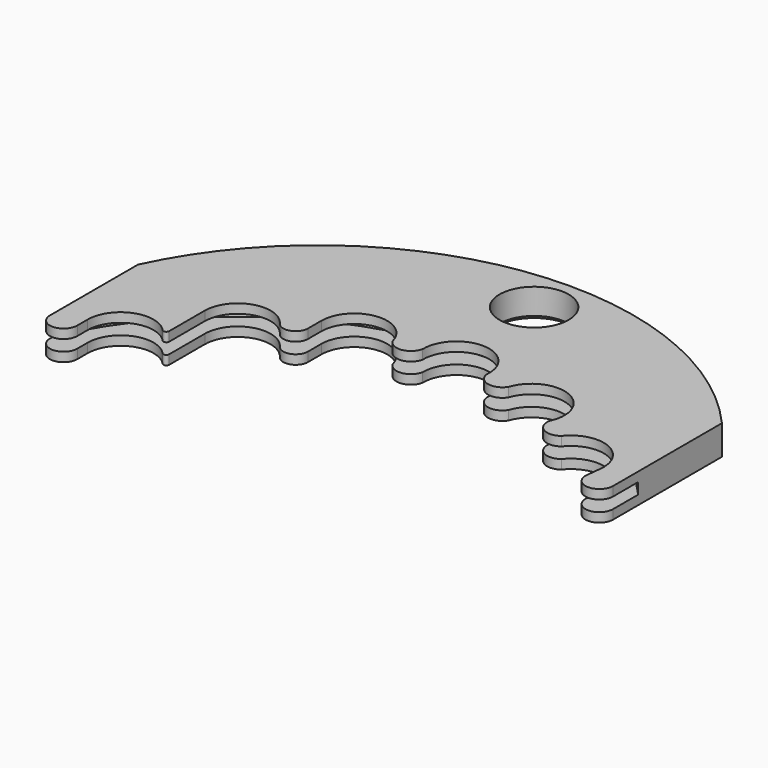
from build123d import *

# Parameters (mm, degrees)
F0_R     = 1.75
F1_DEPTH = 0.75
F2_SIZE  = 0.2
F3_R     = 16
F4_DEPTH = 0.2808333333
F5_SCALE = 3


with BuildPart() as f1:
    # F0 (on Top) → F1 (new body, symmetric)
    with BuildSketch(Plane.XY):
        with BuildLine():
            ThreePointArc((-1.1949222327, 13.4470130831), (0.5293090333, 15.1574275431), (2.1300276773, 13.3309032738))
            ThreePointArc((2.1300276773, 13.3309032738), (2.7028519806, 12.7159188095), (3.4762897375, 13.0447464391))
            ThreePointArc((3.4762897375, 13.0447464391), (5.6815333335, 14.0622884609), (6.5610087387, 11.7984390633))
            ThreePointArc((6.5610087387, 11.7984390633), (6.888950435, 11.02462525), (7.7282098608, 11.0690908546))
            ThreePointArc((7.7282098608, 11.0690908546), (9.6681759929, 11.5734494675), (10.6897886008, 9.8488759309))
            Line((10.6897886008, 9.8488759309), (10.6042593257, 9.0771032695))
            ThreePointArc((10.6042593257, 9.0771032695), (11.2613895868, 8.3010656426), (12, 9))
            Line((12, 9), (12, 15.8830052443))
            ThreePointArc((12, 15.8830052443), (-2.2823101594, 21.1363840676), (-14.5, 12.0638746292))
            Line((-14.5, 12.0638746292), (-14.5, 6.4923420176))
            ThreePointArc((-14.5, 6.4923420176), (-13.8076579824, 5.8), (-13.1153159648, 6.4923420176))
            Line((-13.1153159648, 6.4923420176), (-13.1153159648, 7.1539100671))
            ThreePointArc((-13.1153159648, 7.1539100671), (-12.0573735414, 8.7054359527), (-10.2266368767, 8.2872517719))
            ThreePointArc((-10.2266368767, 8.2872517719), (-10.0691213433, 8.2512714446), (-9.9780965836, 8.3847638426))
            Line((-9.9780965836, 8.3847638426), (-9.9780965836, 10.6381451737))
            ThreePointArc((-9.9780965836, 10.6381451737), (-8.8304088419, 12.2219502921), (-6.9679701997, 11.624498947))
            ThreePointArc((-6.9679701997, 11.624498947), (-6.2690751364, 11.4003005298), (-5.8383960907, 11.9946361248))
            Line((-5.8383960907, 11.9946361248), (-5.8383960907, 12.83926297))
            ThreePointArc((-5.8383960907, 12.83926297), (-4.3814979484, 14.4926760896), (-2.557866158, 13.2554638062))
            ThreePointArc((-2.557866158, 13.2554638062), (-1.8092503125, 12.8734848936), (-1.1949222327, 13.4470130831))
        make_face()
        with Locations((0, 19)):
            Circle(F0_R, mode=Mode.SUBTRACT)
    extrude(amount=F1_DEPTH, both=True)

    # F2
    f2_edges = [f1.edges().sort_by_distance(p)[0] for p in [
        (-1.75, 19, -0.75),
    ]]
    chamfer(f2_edges, length=F2_SIZE)

    # F3 (on Top) → F4 (cut, symmetric)
    with BuildSketch(Plane.XY):
        Circle(F3_R)
    extrude(amount=F4_DEPTH, both=True, mode=Mode.SUBTRACT)


with BuildPart() as f1_1:
    # F5: moved
    add(f1.part.scale(F5_SCALE))


solid = f1_1.part
